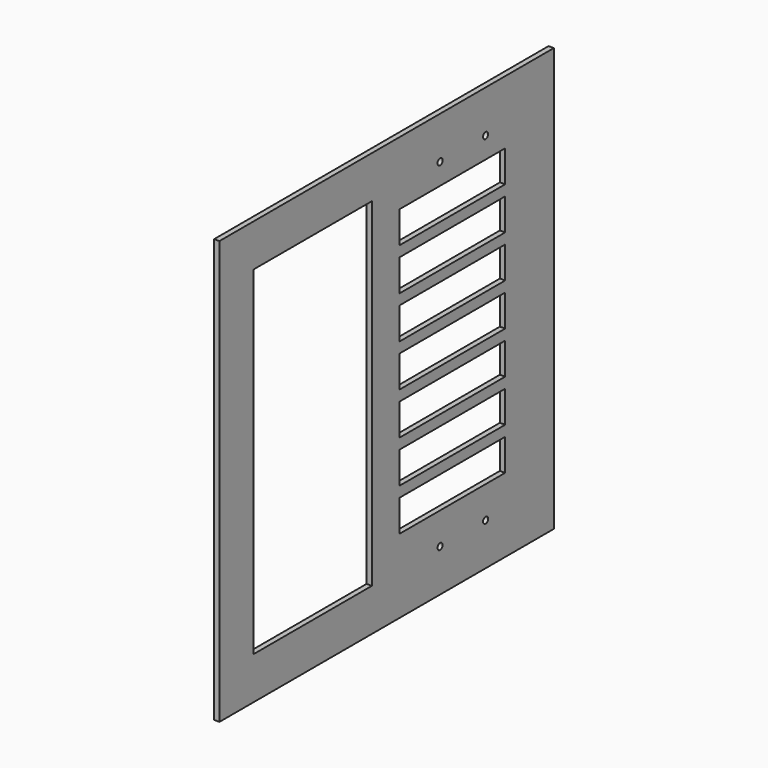
from build123d import *

# Parameters (mm, degrees)
SKETCH001_W         = 501.65
SKETCH001_H         = 508
SKETCH001_R         = 3.81
SKETCH001_W_2       = 177.8
SKETCH001_H_2       = 406.4
PAD007_DEPTH        = 6.35
SKETCH005_W         = 158.75
SKETCH005_H         = 38.1
POCKET_DEPTH        = 6.35
LINEARPATTERN_COUNT = 7
LINEARPATTERN_PITCH = 50.8


with BuildPart() as part:
    # Sketch001 → Pad007 (new body)
    with BuildSketch(Plane(origin=(914.4, 1422.4, 914.4), x_dir=(0, 1, 0), z_dir=(-1, 0, 0))):
        Rectangle(SKETCH001_W, SKETCH001_H)
        with Locations((80.16875, 203.2)):
            Circle(SKETCH001_R, mode=Mode.SUBTRACT)
        with Locations((148.43125, 203.2)):
            Circle(SKETCH001_R, mode=Mode.SUBTRACT)
        with Locations((80.16875, -203.2)):
            Circle(SKETCH001_R, mode=Mode.SUBTRACT)
        with Locations((148.43125, -203.2)):
            Circle(SKETCH001_R, mode=Mode.SUBTRACT)
        with Locations((-111.125, 0)):
            Rectangle(SKETCH001_W_2, SKETCH001_H_2, mode=Mode.SUBTRACT)
    extrude(amount=PAD007_DEPTH)

    # Sketch005 → Pocket (cut)
    with BuildSketch(Plane(origin=(914.4, 1422.4, 914.4), x_dir=(0, 1, 0), z_dir=(1, 0, 0))):
        with Locations((98.425, 158.75)):
            Rectangle(SKETCH005_W, SKETCH005_H)
    pocket = extrude(amount=-POCKET_DEPTH, mode=Mode.SUBTRACT)

    # LinearPattern: Pocket ×7
    with Locations(*[(0, 0, -i * LINEARPATTERN_PITCH) for i in range(1, LINEARPATTERN_COUNT)]):
        add(pocket, mode=Mode.SUBTRACT)


solid = part.part
